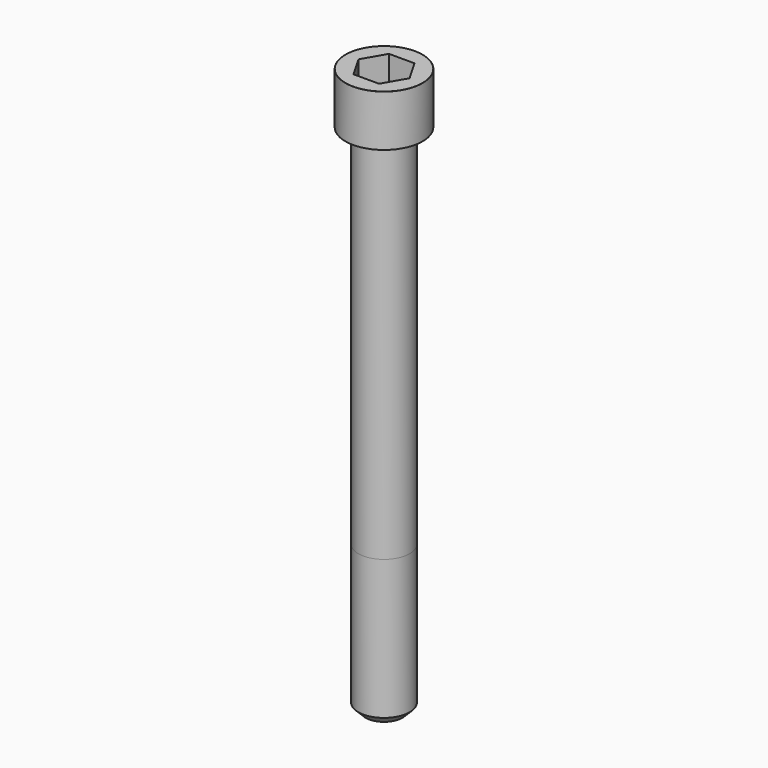
from build123d import *

# Parameters (mm, degrees)
POCKET_DEPTH = 12.07


with BuildPart() as part:
    # Sketch → Revolve (revolve)
    with BuildSketch(Plane.YZ):
        with BuildLine():
            Line((6.999, 0), (10.5, 0))
            Line((10.5, 0), (10.5, 13.97229))
            ThreePointArc((10.5, 13.97229), (10.491884, 13.991884), (10.47229, 14))
            Line((10.47229, 14), (0, 14))
            Line((0, -140), (0, 14))
            Line((5, -140), (0, -140))
            Line((7, -138), (5, -140))
            Line((7, -100), (7, -138))
            Line((6.999, 0), (7, -100))
        make_face()
    revolve(axis=Axis((0, 0, 0), (0, 0, 1)))

    # Sketch001 → Pocket (cut)
    with BuildSketch(Plane.XY.offset(14)):
        Polygon((6.968618, 0), (3.484309, 6.035), (-3.484309, 6.035), (-6.968618, 0), (-3.484309, -6.035), (3.484309, -6.035), align=None)
    extrude(amount=-POCKET_DEPTH, mode=Mode.SUBTRACT)


solid = part.part
